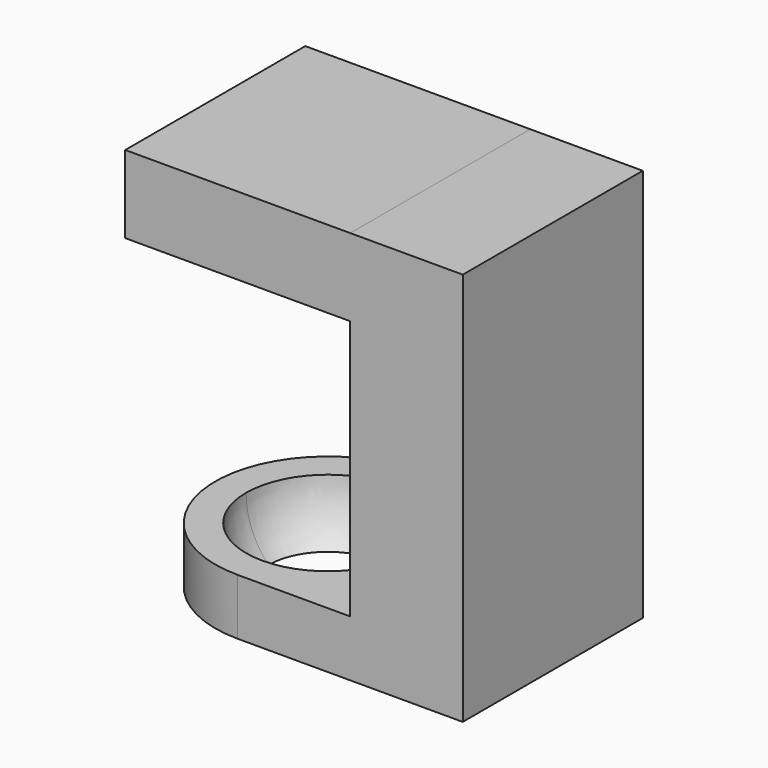
from build123d import *

# Parameters (mm, degrees)
F1_DEPTH = 25.4
F2_W     = 50.8
F2_H     = 101.6
F3_DEPTH = 152.4
F7_W     = 101.6
F7_H     = 35.046041
F8_DEPTH = 101.6


with BuildPart() as f1:
    # F0 (on Top) → F1 (new body)
    with BuildSketch(Plane.XY):
        with BuildLine():
            Line((0, -50.8), (0, 50.8))
            ThreePointArc((0, 50.8), (-50.8, 0), (0, -50.8))
        make_face()
        with BuildLine():
            ThreePointArc((0, -50.8), (35.921024, -35.921024), (50.8, 0))
            ThreePointArc((50.8, 0), (35.921024, 35.921024), (0, 50.8))
            Line((0, 50.8), (0, -50.8))
        make_face()
        with BuildLine():
            ThreePointArc((0, 50.8), (35.921024, 35.921024), (50.8, 0))
            ThreePointArc((50.8, 0), (35.921024, -35.921024), (0, -50.8))
            Line((0, -50.8), (101.6, -50.8))
            Line((101.6, -50.8), (101.6, 50.8))
            Line((101.6, 50.8), (0, 50.8))
        make_face()
    extrude(amount=F1_DEPTH)

    # F2 (on face) → F3 (join)
    with BuildSketch(Plane.XY.offset(25.4)):
        with Locations((76.2, 0)):
            Rectangle(F2_W, F2_H)
    extrude(amount=F3_DEPTH)


with BuildPart() as f5:
    # F4 (on face) → F5 (revolve)
    with BuildSketch(Plane.XY.offset(25.4)):
        with BuildLine():
            ThreePointArc((0, -36.869821), (26.070901, -26.070901), (36.869821, 0))
            ThreePointArc((36.869821, 0), (26.070901, 26.070901), (0, 36.869821))
            Line((0, 36.869821), (0, -36.869821))
        make_face()
    revolve(axis=Axis((0, 0, 25.4), (0, 1, 0)))


with BuildPart() as f1_1:
    add(f1.part)

    # F6: cut F5
    add(f5.part, mode=Mode.SUBTRACT)

    # F7 (on face) → F8 (join)
    with BuildSketch(Plane(origin=(50.8, 0, 0), x_dir=(0, -1, 0), z_dir=(-1, 0, 0))):
        with Locations((0, 160.276979)):
            Rectangle(F7_W, F7_H)
    extrude(amount=F8_DEPTH)


solid = f1_1.part
